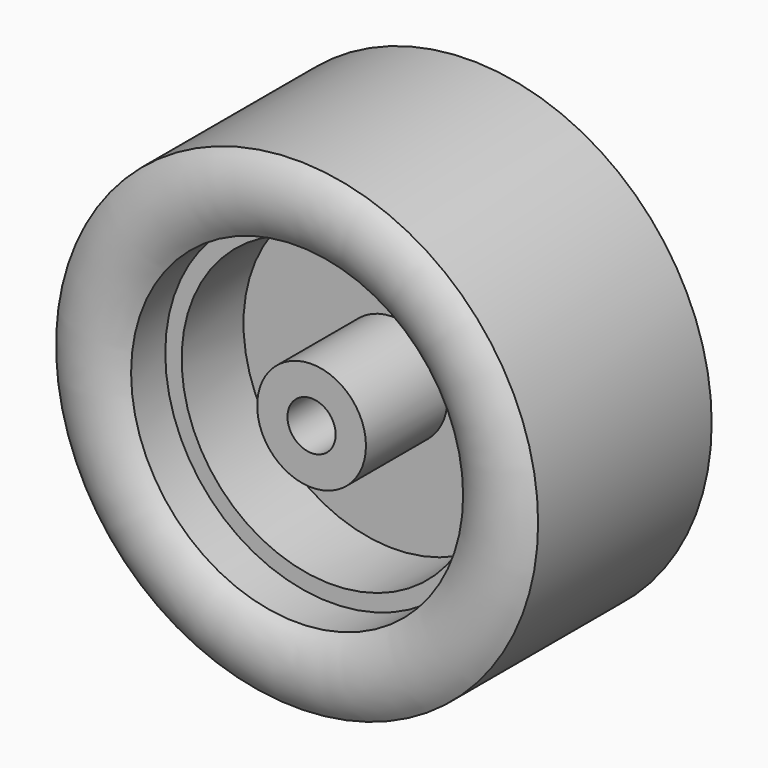
from build123d import *


with BuildPart() as f1:
    # F0 (on Top) → F1 (revolve)
    with BuildSketch(Plane.XY):
        with BuildLine():
            Line((3.805827, 6.538476), (2, 6.538476))
            Line((2, 6.538476), (2, -9.961463))
            Line((2, -9.961463), (4.513236, -9.961463))
            Line((4.513236, -9.961463), (4.513236, -1.251698))
            Line((4.513236, -1.251698), (12.416488, -1.251698))
            Line((12.416488, -1.251698), (12.416488, -7.917237))
            Line((12.416488, -7.917237), (13.775627, -7.917237))
            Line((13.775627, -7.917237), (13.775627, -11.461524))
            ThreePointArc((13.775627, -11.461524), (16.887813, -12.570455), (20, -11.461524))
            Line((20, -11.461524), (20, 6.538476))
            Line((20, 6.538476), (19.151396, 6.538476))
            Line((19.151396, 6.538476), (19.151396, -10.855305))
            Line((19.151396, -10.855305), (14.624231, -10.855305))
            Line((14.624231, -10.855305), (14.624231, -7.068633))
            Line((14.624231, -7.068633), (13.265092, -7.068633))
            Line((13.265092, -7.068633), (13.265092, -0.403094))
            Line((13.265092, -0.403094), (3.805827, -0.403094))
            Line((3.805827, -0.403094), (3.805827, 6.538476))
        make_face()
    revolve(axis=Axis((0, -1.518788, 0), (0, -1, 0)))


with BuildPart() as f3:
    # F0 (on Top) → F3 (revolve)
    with BuildSketch(Plane.XY):
        with BuildLine():
            Line((3.805827, 6.538476), (2, 6.538476))
            Line((2, 6.538476), (2, -9.961463))
            Line((2, -9.961463), (4.513236, -9.961463))
            Line((4.513236, -9.961463), (4.513236, -1.251698))
            Line((4.513236, -1.251698), (12.416488, -1.251698))
            Line((12.416488, -1.251698), (12.416488, -7.917237))
            Line((12.416488, -7.917237), (13.775627, -7.917237))
            Line((13.775627, -7.917237), (13.775627, -11.461524))
            ThreePointArc((13.775627, -11.461524), (16.887813, -12.570455), (20, -11.461524))
            Line((20, -11.461524), (20, 6.538476))
            Line((20, 6.538476), (19.151396, 6.538476))
            Line((19.151396, 6.538476), (19.151396, -10.855305))
            Line((19.151396, -10.855305), (14.624231, -10.855305))
            Line((14.624231, -10.855305), (14.624231, -7.068633))
            Line((14.624231, -7.068633), (13.265092, -7.068633))
            Line((13.265092, -7.068633), (13.265092, -0.403094))
            Line((13.265092, -0.403094), (3.805827, -0.403094))
            Line((3.805827, -0.403094), (3.805827, 6.538476))
        make_face()
    revolve(axis=Axis((0, -1.518788, 0), (0, -1, 0)))


with BuildPart() as f4:
    # F2 (on Top) → F4 (revolve)
    with BuildSketch(Plane.XY):
        Polygon((3.805827, 5.5), (2, 5.5), (2, -5.5), (3.805827, -5.5), (3.805827, -1.5), (18.5, -1.5), (18.5, 1.5), (3.805827, 1.5), align=None)
    revolve(axis=Axis((0, -1.518788, 0), (0, -1, 0)))


solid = Compound([f1.part, f3.part, f4.part])
